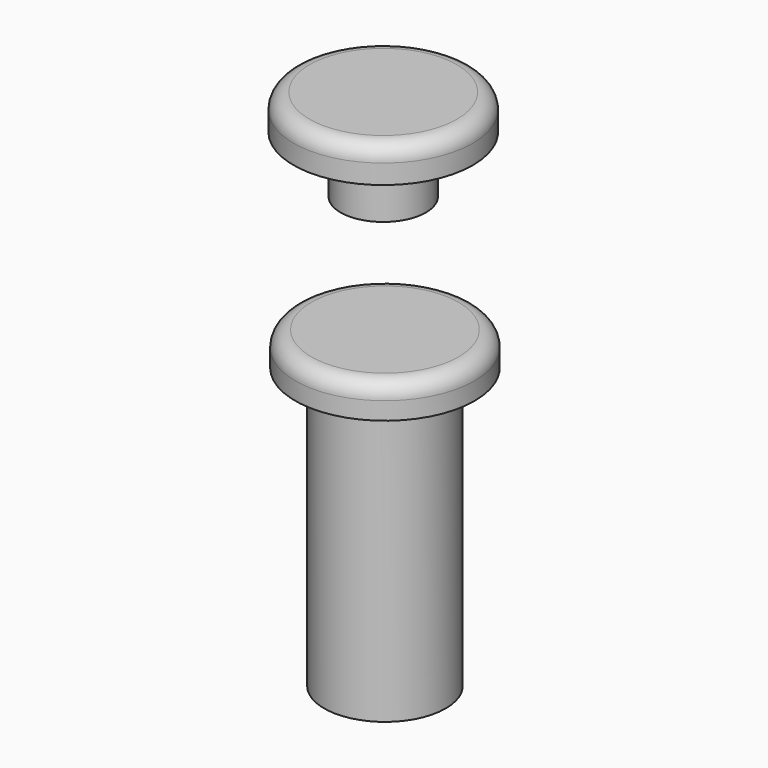
from build123d import *

# Parameters (mm, degrees)
F0_R      = 5.4229
F1_DEPTH  = 24.9936
F2_R      = 8.001
F3_DEPTH  = 2.9972
F4_R      = 1.4224
F6_R      = 3.81
F7_DEPTH  = 5.08
F8_R      = 8.001
F9_DEPTH  = 3.1496
F10_R     = 3.81
F11_DEPTH = 5.08
F12_R     = 1.4224


with BuildPart() as f1:
    # F0 (on Top) → F1 (new body)
    with BuildSketch(Plane.XY):
        Circle(F0_R)
    extrude(amount=F1_DEPTH)

    # F2 (on face) → F3 (join)
    with BuildSketch(Plane.XY.offset(24.9936)):
        Circle(F2_R)
    extrude(amount=F3_DEPTH)

    # F4
    f4_edges = [f1.edges().sort_by_distance(p)[0] for p in [
        (-8.001, 0, 27.9908),
    ]]
    fillet(f4_edges, radius=F4_R)

    # F6 (on face) → F7 (cut)
    with BuildSketch(Plane(origin=(0, 0, 0), x_dir=(1, 0, 0), z_dir=(0, 0, -1))):
        Circle(F6_R)
    extrude(amount=-F7_DEPTH, mode=Mode.SUBTRACT)


with BuildPart() as f9:
    # F8 (on offset) → F9 (new body)
    with BuildSketch(Plane.XY.offset(27.9908)):
        with Locations((-22.489315, 27.919449)):
            Circle(F8_R)
    extrude(amount=-F9_DEPTH)

    # F10 (on face) → F11 (join)
    with BuildSketch(Plane(origin=(0, 0, 24.8412), x_dir=(1, 0, 0), z_dir=(0, 0, -1))):
        with Locations((-22.489315, -27.919449)):
            Circle(F10_R)
    extrude(amount=F11_DEPTH)

    # F12
    f12_edges = [f9.edges().sort_by_distance(p)[0] for p in [
        (-30.490315, 27.919449, 27.9908),
    ]]
    fillet(f12_edges, radius=F12_R)


solid = Compound([f1.part, f9.part])
